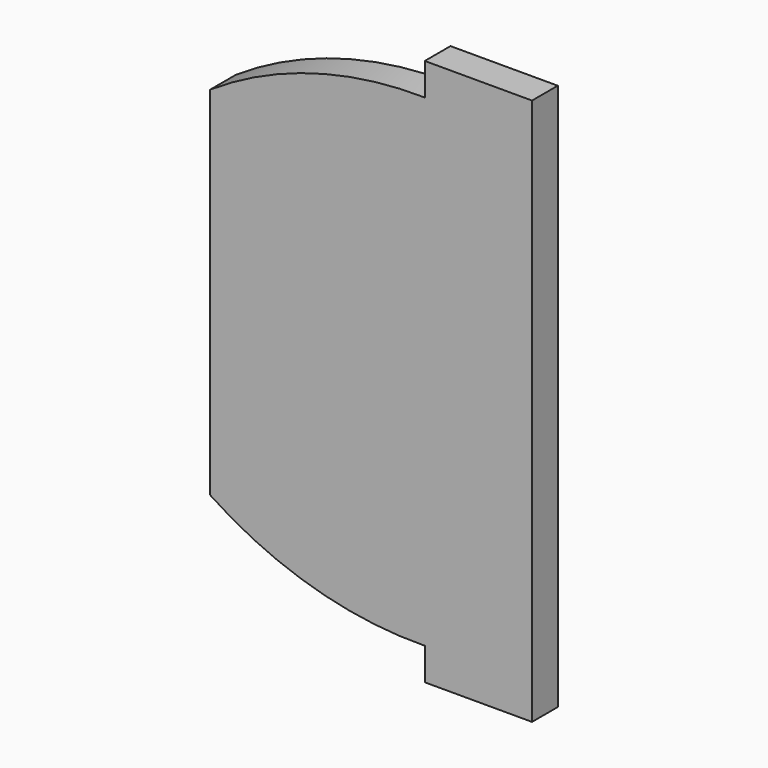
from build123d import *

# Parameters (mm, degrees)
F1_DEPTH = 6


with BuildPart() as f1:
    # F0 (on Front) → F1 (new body)
    with BuildSketch(Plane.XZ):
        with BuildLine():
            Line((-45, 33.291683), (-45, -33.291683))
            ThreePointArc((-45, -33.291683), (-25.888378, -42.180874), (-5, -45))
            Line((-5, -45), (-5, -51))
            Line((-5, -51), (15, -51))
            Line((15, -51), (15, -45))
            Line((15, -45), (15, 45))
            Line((15, 45), (15, 51))
            Line((15, 51), (-5, 51))
            Line((-5, 51), (-5, 45))
            ThreePointArc((-5, 45), (-25.888378, 42.180874), (-45, 33.291683))
        make_face()
    extrude(amount=F1_DEPTH)


solid = f1.part
